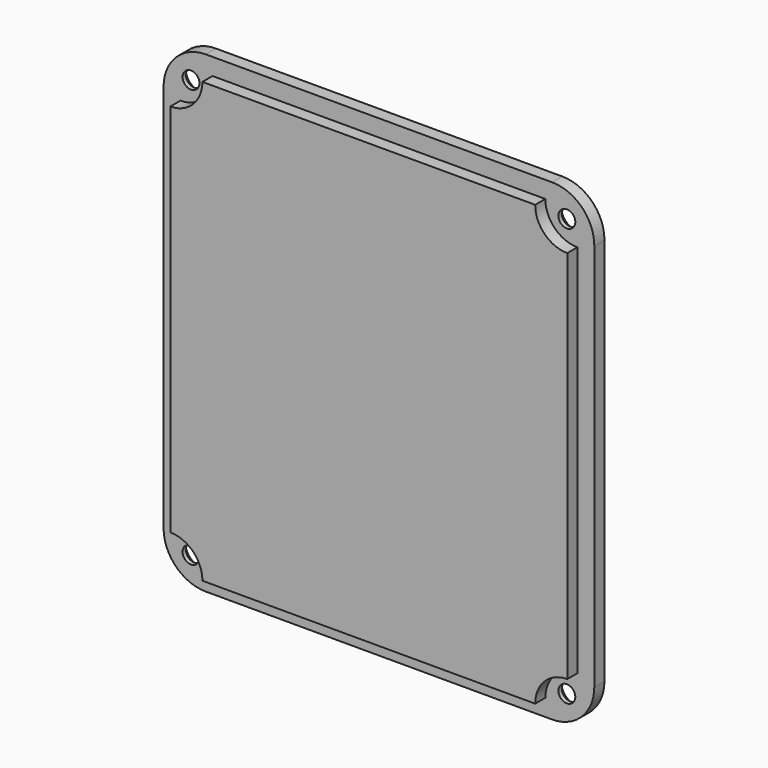
from build123d import *

# Parameters (mm, degrees)
F0_W           = 51
F0_H           = 56
F0_W_2         = 47
F0_H_2         = 52
F1_DEPTH       = 1.5
F2_R           = 5
F3_DEPTH       = 3
F5_D           = 2
F5_CBORE_D     = 3.7
F5_CBORE_DEPTH = 1
F7_DEPTH       = 1.5


with BuildPart() as f1:
    # F0 (on Front) → F1 (new body)
    with BuildSketch(Plane.XZ):
        with Locations((25.5, 28)):
            Rectangle(F0_W, F0_H)
        with Locations((25.5, 28)):
            Rectangle(F0_W_2, F0_H_2, mode=Mode.SUBTRACT)
        with Locations((25.5, 28)):
            Rectangle(F0_W_2, F0_H_2)
    extrude(amount=F1_DEPTH)

    # F2
    f2_edges = [f1.edges().sort_by_distance(p)[0] for p in [
        (0, -0.75, 56),
        (51, -0.75, 56),
        (51, -0.75, 0),
        (0, -0.75, 0),
    ]]
    fillet(f2_edges, radius=F2_R)

    # F0 (on Front) → F3 (join)
    with BuildSketch(Plane.XZ):
        with Locations((25.5, 28)):
            Rectangle(F0_W_2, F0_H_2)
    extrude(amount=F3_DEPTH)

    # F5 (through all)
    with Locations(Plane(origin=(0, 0, 0), x_dir=(1, 0, 0), z_dir=(0, 1, 0))):
        with Locations((47.75, -52.75), (3.25, -52.75), (47.75, -3.25), (3.25, -3.25)):
            CounterBoreHole(F5_D / 2, F5_CBORE_D / 2, F5_CBORE_DEPTH)

    # F6 (on face) → F7 (cut)
    with BuildSketch(Plane.XZ.offset(3)):
        with BuildLine():
            Line((2, 54), (2, 50.2))
            ThreePointArc((2, 50.2), (4.6870057685, 51.3129942315), (5.8, 54))
            Line((5.8, 54), (2, 54))
        make_face()
        with BuildLine():
            ThreePointArc((45.2, 54), (46.3129942315, 51.3129942315), (49, 50.2))
            Line((49, 50.2), (49, 54))
            Line((49, 54), (45.2, 54))
        make_face()
        with BuildLine():
            Line((49, 2), (49, 5.8))
            ThreePointArc((49, 5.8), (46.3129942315, 4.6870057685), (45.2, 2))
            Line((45.2, 2), (49, 2))
        make_face()
        with BuildLine():
            ThreePointArc((5.8, 2), (4.6870057685, 4.6870057685), (2, 5.8))
            Line((2, 5.8), (2, 2))
            Line((2, 2), (5.8, 2))
        make_face()
    extrude(amount=-F7_DEPTH, mode=Mode.SUBTRACT)


solid = f1.part
